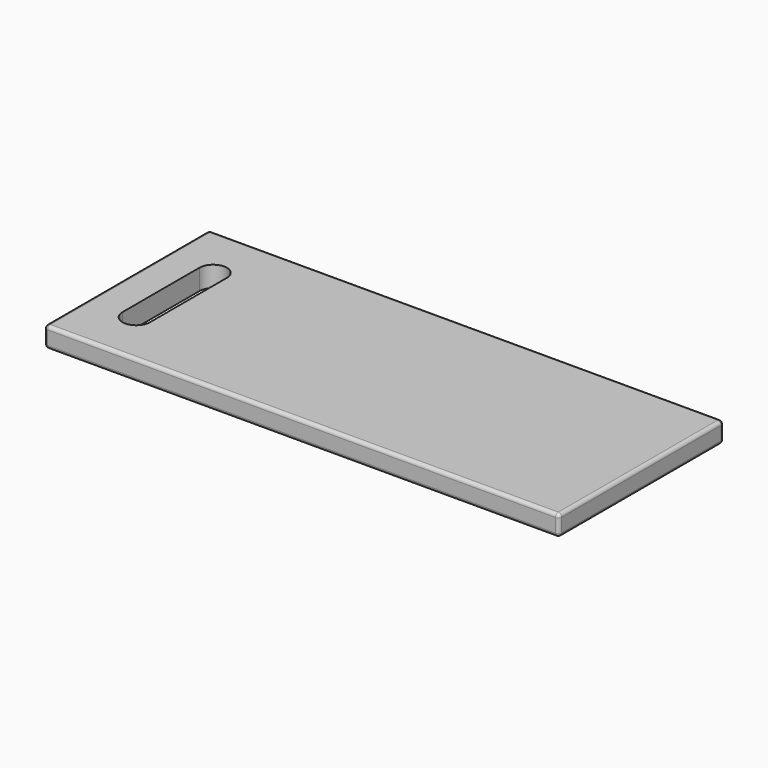
from build123d import *

# Parameters (mm, degrees)
F0_W     = 75
F0_H     = 30
F1_DEPTH = 3
F2_W     = 4
F2_H     = 7
F3_DEPTH = 25
F4_R     = 0.5


with BuildPart() as f1:
    # F0 (on Top) → F1 (new body)
    with BuildSketch(Plane.XY):
        with Locations((37.5, 15)):
            Rectangle(F0_W, F0_H)
    extrude(amount=F1_DEPTH)

    # F2 (on face) → F3 (cut)
    with BuildSketch(Plane.XY.offset(3)):
        with BuildLine():
            Line((5, 22), (5, 15))
            Line((5, 15), (9, 15))
            Line((9, 15), (9, 22))
            ThreePointArc((9, 22), (7, 24), (5, 22))
        make_face()
        with Locations((7, 11.5)):
            Rectangle(F2_W, F2_H)
        with BuildLine():
            Line((9, 8), (5, 8))
            ThreePointArc((5, 8), (7, 6), (9, 8))
        make_face()
    extrude(amount=-F3_DEPTH, mode=Mode.SUBTRACT)

    # F4
    f4_edges = [f1.edges().sort_by_distance(p)[0] for p in [
        (37.5, 30, 3),
        (0, 15, 3),
        (37.5, 0, 3),
        (75, 15, 3),
        (75, 15, 0),
        (37.5, 0, 0),
        (37.5, 30, 0),
        (0, 15, 0),
        (75, 0, 1.5),
        (75, 30, 1.5),
        (0, 30, 1.5),
        (0, 0, 1.5),
    ]]
    fillet(f4_edges, radius=F4_R)


solid = f1.part
